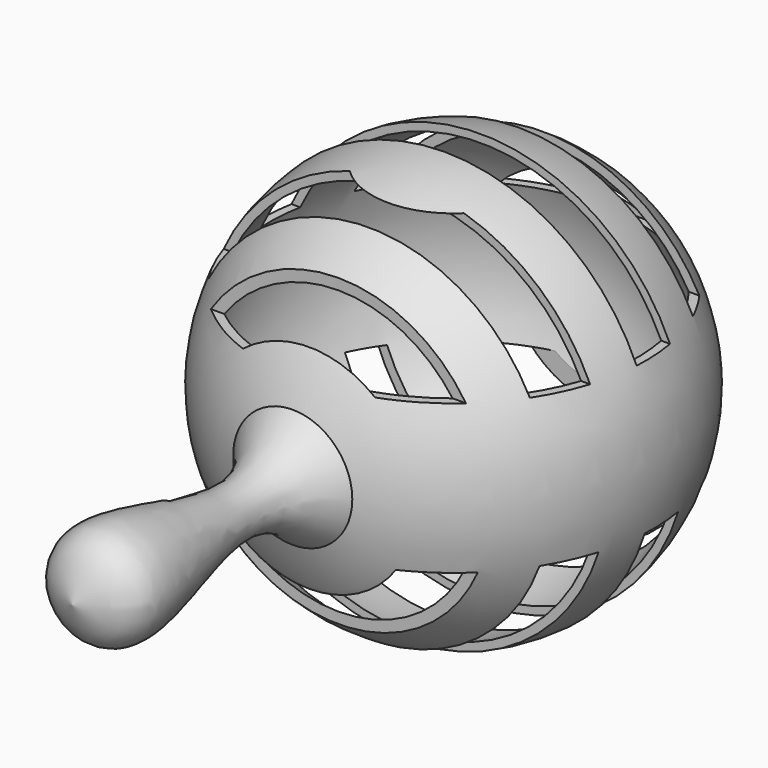
from build123d import *

# Parameters (mm, degrees)
F2_W     = 7
F2_H     = 13.6652645605
F2_W_2   = 9.0095303822
F2_H_2   = 20.9149856465
F2_W_3   = 8.6026550097
F2_H_3   = 28.6374408567
F2_W_4   = 5.7918455859
F2_H_4   = 27.3503635956
F2_W_5   = 4.5047599683
F2_H_5   = 18.3408332134
F2_H_6   = 18.6626014841
F2_H_7   = 32.1769001911
F2_H_8   = 32.8204367325
F2_H_9   = 32.4986684618
F2_H_10  = 21.2367539172
F3_DEPTH = 40


with BuildPart() as f1:
    # F0 (on Top) → F1 (revolve)
    with BuildSketch(Plane.XY):
        with BuildLine():
            add(Edge.make_bspline(
                [(11.3661689684, -3.8932779061), (8.0122369434, -7.6869291004), (-0.1303093404, -16.8970085545), (15.6319751218, -51.8164865258), (4.2950387146, -55.2611649983), (0, -56.5661936998)],
                knots=[0, 0, 0, 0, 0.3031597939, 0.7359996073, 1, 1, 1, 1], degree=3))
            ThreePointArc((11.3661689684, -3.8932779061), (39.5856396785, 40.2004373636), (0, 74.4578655317))
            Line((0, 74.4578655317), (0, 72.9626311201))
            ThreePointArc((0, 72.9626311201), (38.5047655884, 34.4578655317), (0, -4.0469000567))
            Line((0, -4.0469000567), (0, -5.5421344683))
            Line((0, -5.5421344683), (0, -56.5661936998))
        make_face()
    revolve(axis=Axis((0, -30.3065468783, 0), (0, 1, 0)))

    # F2 (on Right) → F3 (cut, symmetric)
    with BuildSketch(Plane.YZ):
        with Locations((3.5, 22.7601971959)):
            Rectangle(F2_W, F2_H)
        with Locations((18.8328125539, 26.3850577389)):
            Rectangle(F2_W_2, F2_H_2)
        with Locations((36.6484418995, 30.246285344)):
            Rectangle(F2_W_3, F2_H_3)
        with Locations((52.9403275921, 29.6027467134)):
            Rectangle(F2_W_4, F2_H_4)
        with Locations((67.741699382, 25.0979815223)):
            Rectangle(F2_W_5, F2_H_5)
        with Locations((3.5, -21.0758697819)):
            Rectangle(F2_W, F2_H_6)
        with Locations((18.8328125539, -27.8330191354)):
            Rectangle(F2_W_2, F2_H_7)
        with Locations((36.6484418995, -28.1547874061)):
            Rectangle(F2_W_3, F2_H_8)
        with Locations((52.9403275921, -27.9939032707)):
            Rectangle(F2_W_4, F2_H_9)
        with Locations((67.741699382, -22.3629459984)):
            Rectangle(F2_W_5, F2_H_10)
    extrude(amount=F3_DEPTH, both=True, mode=Mode.SUBTRACT)


solid = f1.part
